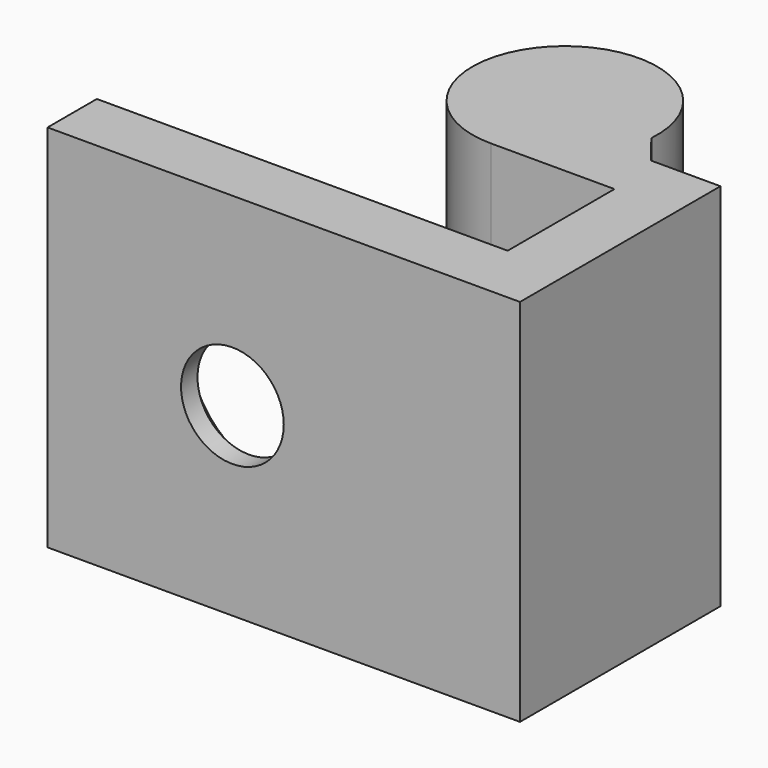
from build123d import *

# Parameters (mm, degrees)
PAD_DEPTH       = 18
SKETCH001_R     = 2.5
POCKET_DEPTH    = 18.501
CHAMFER_SIZE    = 2
CHAMFER001_SIZE = 1.5


with BuildPart() as part:
    # Sketch → Pad (new body)
    with BuildSketch(Plane.XY):
        with BuildLine():
            Line((-6.145128, -9.214477), (16.854872, -9.214477))
            Line((16.854872, -9.214477), (16.854872, 2.985523))
            Line((11.963718, 2.985523), (16.854872, 2.985523))
            ThreePointArc((11.963718, 2.985523), (5.37466, 8.550501), (7.839372, 0.285523))
            Line((13.854872, 0.285523), (7.839372, 0.285523))
            Line((13.854872, -6.214477), (13.854872, 0.285523))
            Line((-6.145128, -6.214477), (13.854872, -6.214477))
            Line((-6.145128, -9.214477), (-6.145128, -6.214477))
        make_face()
    extrude(amount=PAD_DEPTH)

    # Sketch001 → Pocket (cut, through all)
    with BuildSketch(Plane.XZ.offset(9.214477)):
        with Locations((2.854872, 9)):
            Circle(SKETCH001_R)
    extrude(amount=-POCKET_DEPTH, mode=Mode.SUBTRACT)

    # Chamfer
    chamfer_edges = [part.edges().sort_by_distance(p)[0] for p in [
        (0.354872, -6.214477, 9),
    ]]
    chamfer(chamfer_edges, length=CHAMFER_SIZE)

    # Chamfer001
    chamfer001_edges = [part.edges().sort_by_distance(p)[0] for p in [
        (11.963718, 2.985523, 9),
    ]]
    chamfer(chamfer001_edges, length=CHAMFER001_SIZE)


solid = part.part
